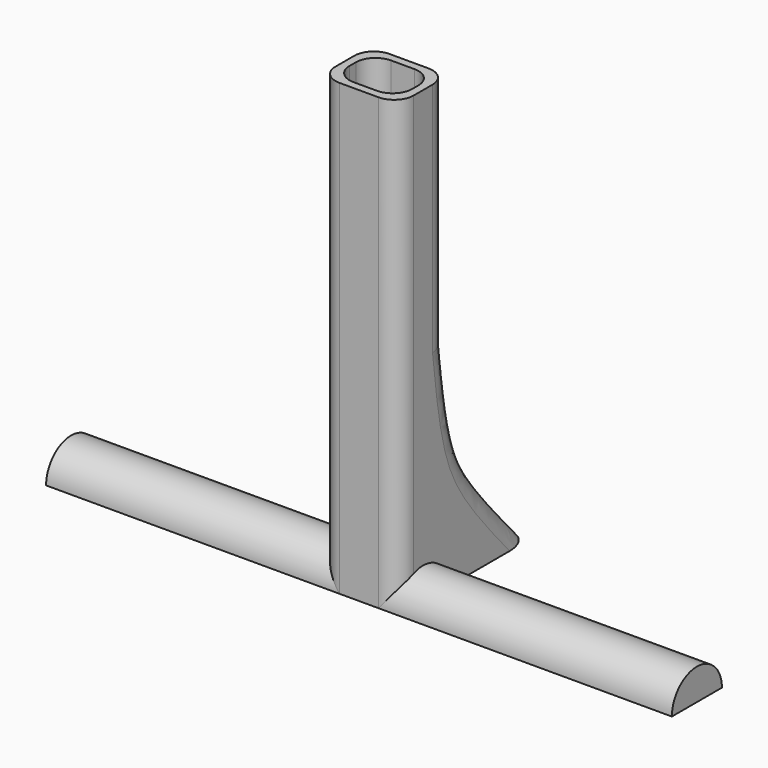
from build123d import *

# Parameters (mm, degrees)
F0_W          = 20
F0_H          = 16
F1_DEPTH      = 100
F1_DEPTH_BACK = 15
F2_T          = -2
F3_R          = 6.65
F4_DEPTH      = 25
F9_DEPTH      = 20
F10_R         = 5


with BuildPart() as f1:
    # F0 (on Top) → F1 (new body, two sides)
    with BuildSketch(Plane.XY) as f1_sk:
        Rectangle(F0_W, F0_H)
    extrude(amount=F1_DEPTH)
    extrude(f1_sk.sketch, amount=-F1_DEPTH_BACK)

    # F2
    f2_openings = [f1.faces().sort_by_distance(p)[0] for p in [
        (0, 0, 100),
    ]]
    offset(amount=F2_T, openings=f2_openings)

    # F3 (on Top) → F4 (cut)
    with BuildSketch(Plane.XY):
        with Locations((-23, 31)):
            Circle(F3_R)
    extrude(amount=F4_DEPTH, mode=Mode.SUBTRACT)

    # F7: sweep along a path in F6
    with BuildLine(Plane(origin=(0, 0, -15), x_dir=(1, 0, 0), z_dir=(0, 0, -1))) as f7_path:
        Line((-80, 0), (80, 0))
    # F5 (on face) → F7 (sweep)
    with BuildSketch(Plane.YZ.offset(10)):
        with BuildLine():
            Line((-8, -15), (8, -15))
            ThreePointArc((8, -15), (0, -7), (-8, -15))
        make_face()
    sweep(path=f7_path.line)

    # F8 (on face) → F9 (join)
    with BuildSketch(Plane.YZ.offset(10)):
        with BuildLine():
            Line((8, 39.9389689904), (8, -15))
            Line((8, -15), (34.332793206, -15))
            add(Edge.make_bspline(
                [(8, 39.9389689904), (8.920262118, 31.8490776814), (10.8133224807, 17.1951366341), (17.1653233274, 4.3539788499), (28.0984148898, -7.9715894697), (34.332793206, -15)],
                knots=[0.0556572186, 0.0556572186, 0.0556572186, 0.0556572186, 0.3658143049, 0.6383682032, 1, 1, 1, 1], degree=3))
        make_face()
    extrude(amount=-F9_DEPTH)

    # F10
    f10_edges = [f1.edges().sort_by_distance(p)[0] for p in [
        (-8, -6, 45.145751),
        (8, -6, 45.145751),
        (10, -8, 42.5),
        (-10, -8, 42.5),
        (8, 6, 45.145751),
        (-8, 6, 45.145751),
        (10, 8, 69.969484),
        (-10, 8, 69.969484),
        (10, 14.887336, 9.5352),
        (-10, 14.887336, 9.5352),
    ]]
    fillet(f10_edges, radius=F10_R)


solid = f1.part
